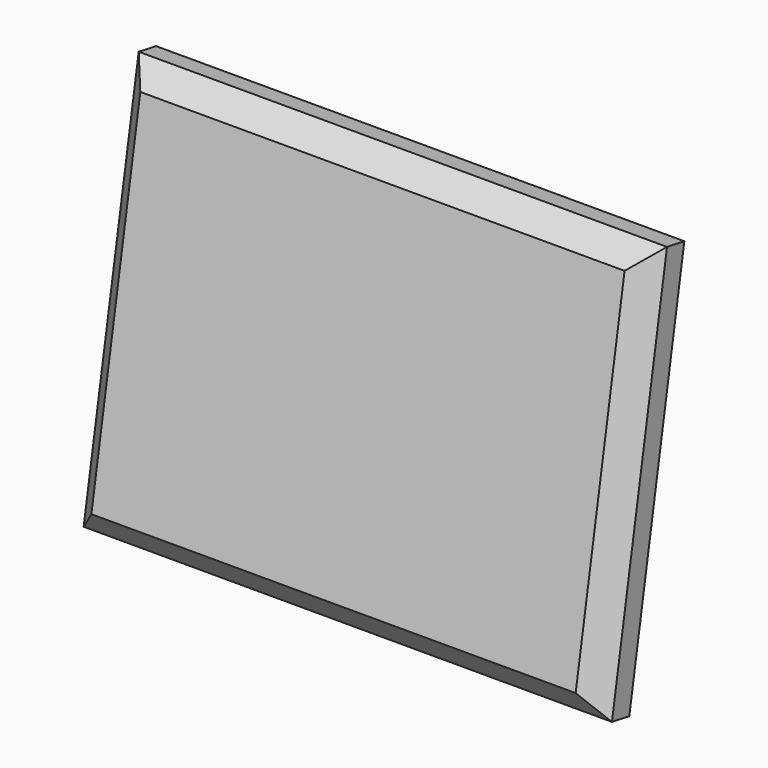
from build123d import *

# Parameters (mm, degrees)
F0_W     = 304.8
F0_H     = 228.6
F1_DEPTH = 25.4
F2_SIZE  = 12.7
F3_W     = 69.85
F3_H     = 12.7
F4_DEPTH = 12.7
F5_ANGLE = 10
F7_DEPTH = 22.225
F8_R     = 10


with BuildPart() as f1:
    # F0 (on Front) → F1 (new body)
    with BuildSketch(Plane.XZ):
        Rectangle(F0_W, F0_H)
    extrude(amount=F1_DEPTH)

    # F2
    f2_edges = [f1.edges().sort_by_distance(p)[0] for p in [
        (152.4, -25.4, 0),
        (0, -25.4, 114.3),
        (-152.4, -25.4, 0),
        (0, -25.4, -114.3),
    ]]
    chamfer(f2_edges, length=F2_SIZE)

    # F3 (on face) → F4 (join)
    with BuildSketch(Plane(origin=(0, 0, 0), x_dir=(-1, 0, 0), z_dir=(0, 1, 0))):
        with Locations((0, 69.85)):
            Rectangle(F3_W, F3_H)
    extrude(amount=F4_DEPTH)


with BuildPart() as f1_1:
    # F5: moved
    add(f1.part.rotate(Axis((0, 0, -114.3), (-1, 0, 0)), F5_ANGLE))


with BuildPart() as f7:
    # F6 (on Right) → F7 (new body, symmetric)
    with BuildSketch(Plane.YZ):
        Polygon((33.041223, 60.416792), (33.423249, 62.58337), (31.256672, 62.965396), (30.874646, 60.798818), align=None)
        Polygon((31.256672, 62.965396), (33.423249, 62.58337), (34.864529, 70.757274), (32.697952, 71.1393), align=None)
        Polygon((63.634596, -113.086845), (33.041223, 60.416792), (30.874646, 60.798818), (61.598679, -113.445832), align=None)
        with BuildLine():
            ThreePointArc((61.598679, -113.445832), (62.796131, -114.284296), (63.634596, -113.086845))
            Line((63.634596, -113.086845), (61.598679, -113.445832))
        make_face()
    extrude(amount=F7_DEPTH, both=True)

    # F8
    f8_edges = [f7.edges().sort_by_distance(p)[0] for p in [
        (0, 33.041223, 60.416792),
        (0, 30.874646, 60.798818),
    ]]
    fillet(f8_edges, radius=F8_R)


solid = Compound([f1_1.part, f7.part])
